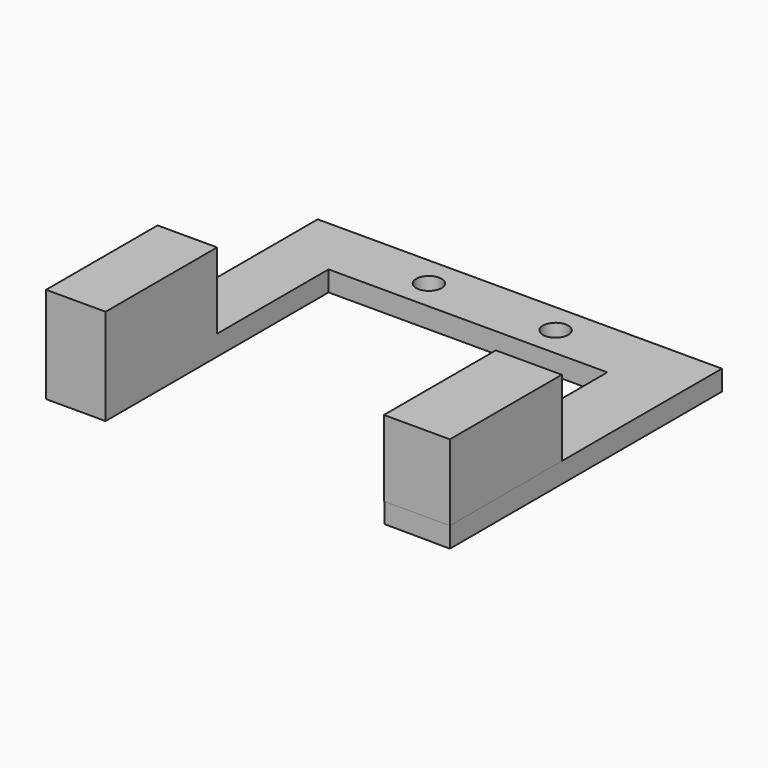
from build123d import *

# Parameters (mm, degrees)
F0_R     = 2.5
F1_DEPTH = 4
F2_W     = 11.742338
F2_H     = 27.5
F2_W_2   = 13.017611
F2_H_2   = 27.598643
F3_DEPTH = 15


with BuildPart() as f1:
    # F0 (on Top) → F1 (new body)
    with BuildSketch(Plane.XY):
        Polygon((-27.5, 27.5), (27.5, 27.5), (27.5, -27.5), (40.517611, -27.598643), (40.517611, 39.5), (-39.242338, 39.5), (-39.242338, -27.5), (-27.5, -27.5), align=None)
        with Locations((-12.5, 33.5)):
            Circle(F0_R, mode=Mode.SUBTRACT)
        with Locations((12.5, 33.5)):
            Circle(F0_R, mode=Mode.SUBTRACT)
    extrude(amount=F1_DEPTH)

    # F2 (on face) → F3 (join)
    with BuildSketch(Plane.XY.offset(4)):
        with Locations((-33.371169, -13.75)):
            Rectangle(F2_W, F2_H)
        with Locations((34.008805, -13.799321)):
            Rectangle(F2_W_2, F2_H_2)
    extrude(amount=F3_DEPTH)


solid = f1.part
